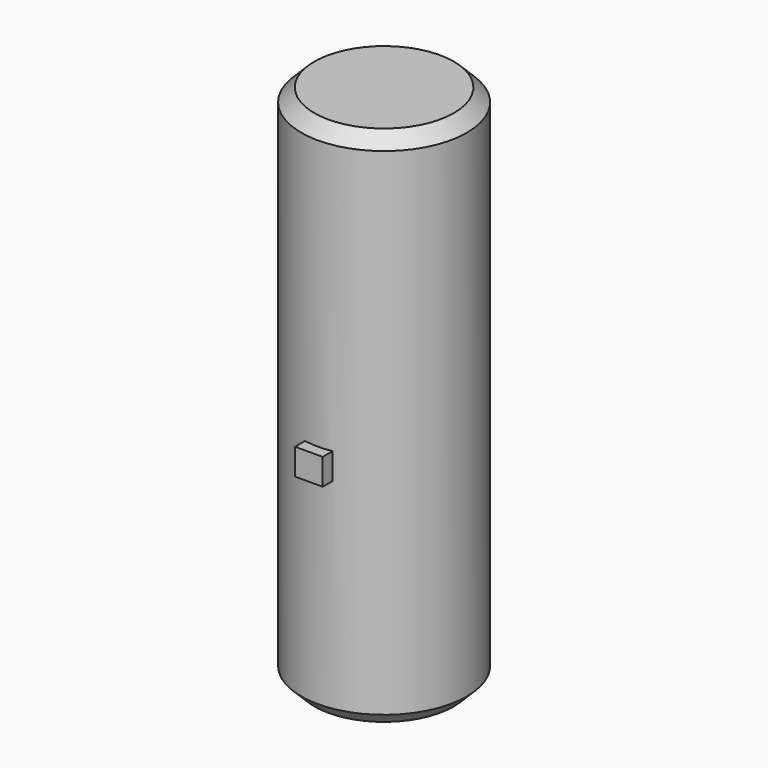
from build123d import *

# Parameters (mm, degrees)
F0_R     = 8.053641
F1_DEPTH = 50.8
F2_SIZE  = 1.27
F3_SIZE  = 1.27
F4_W     = 2.679992
F4_H     = 2.559151
F5_DEPTH = 9.144


with BuildPart() as f1:
    # F0 (on Top) → F1 (new body)
    with BuildSketch(Plane.XY):
        Circle(F0_R)
    extrude(amount=F1_DEPTH)

    # F2
    f2_edges = [f1.edges().sort_by_distance(p)[0] for p in [
        (-8.053641, 0, 50.8),
    ]]
    chamfer(f2_edges, length=F2_SIZE)

    # F3
    f3_edges = [f1.edges().sort_by_distance(p)[0] for p in [
        (-8.053641, 0, 0),
    ]]
    chamfer(f3_edges, length=F3_SIZE)

    # F4 (on Front) → F5 (join)
    with BuildSketch(Plane.XZ):
        with Locations((0, 22.032296)):
            Rectangle(F4_W, F4_H)
    extrude(amount=F5_DEPTH)


solid = f1.part
